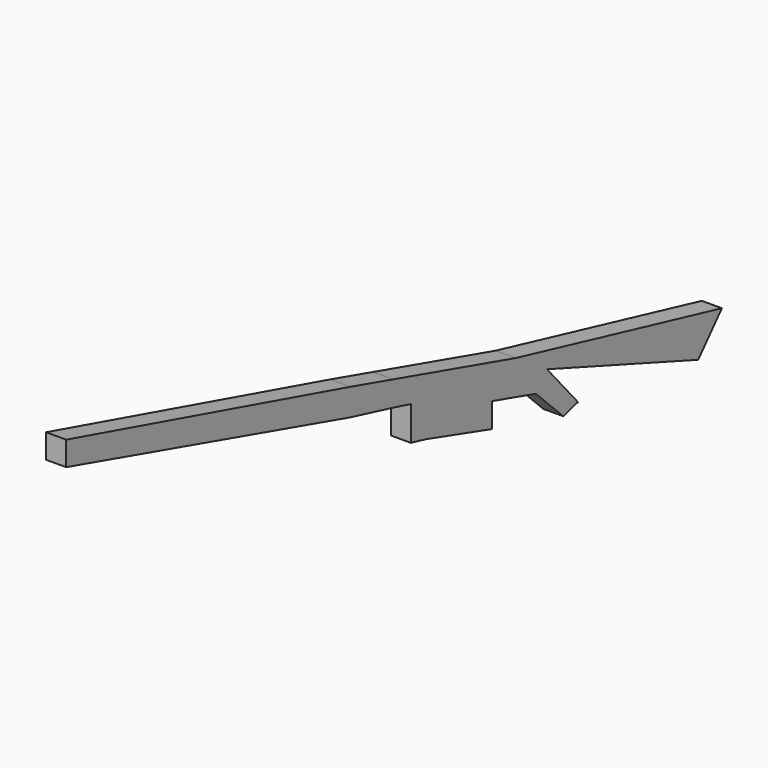
from build123d import *

# Parameters (mm, degrees)
F1_DEPTH = 25.4


with BuildPart() as f1:
    # F0 (on Right) → F1 (new body)
    with BuildSketch(Plane.YZ):
        Polygon((-47.416262, 14.091257), (0, 0), (191.8668, -55.12958), (142.530382, -22.531383), (-51.746033, 32.663591), align=None)
        Polygon((191.8668, -55.12958), (0, 0), (0, -12.498338), (0, -55.12958), (104.371555, -86.253412), (104.371555, -55.12958), (174.26461, -75.24664), (217.526868, -117.949255), (240.844205, -111.579694), align=None)
        Polygon((0, -12.498338), (0, 0), (-47.416262, 14.091257), (-47.416262, 0), (-23.708131, -6.249169), align=None)
        Polygon((142.530382, -22.531383), (191.8668, -55.12958), (431.17848, -141.829729), align=None)
        Polygon((0, -55.12958), (0, -12.498338), (-23.708131, -6.249169), (-23.708131, -49.548186), align=None)
        Polygon((-47.416262, 0), (-47.416262, 14.091257), (-51.746033, 32.663591), (-119.481315, 51.907549), (-119.481315, 17.833257), align=None)
        Polygon((468.688458, -99.593073), (142.530382, -22.531383), (431.17848, -141.829729), align=None)
        Polygon((-569.332242, 145.165175), (-119.481315, 17.833257), (-119.481315, 51.907549), (-569.332242, 175.844446), align=None)
    extrude(amount=F1_DEPTH)


solid = f1.part
